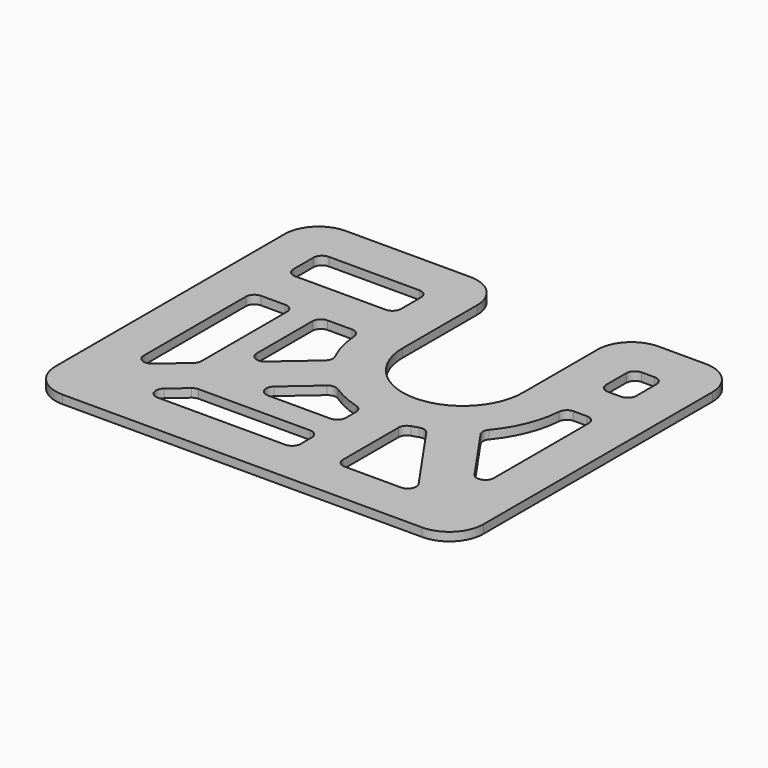
from build123d import *

# Parameters (mm, degrees)
F1_DEPTH = 6.35
F2_W     = 31.75
F2_H     = 63.1597361455
F2_W_2   = 80.4999943972
F2_H_2   = 31.75
F2_W_3   = 22.4999943972
F3_DEPTH = 6.35
F4_W     = 19.05
F4_H     = 89.0185771326
F4_W_2   = 92.1357582898
F4_H_2   = 19.05
F5_DEPTH = 6.35
F6_R     = 25.4
F7_R     = 6.35


with BuildPart() as f1:
    # F0 (on Top) → F1 (new body)
    with BuildSketch(Plane.XY):
        with BuildLine():
            Line((-45, 95), (-189, 95))
            Line((-189, 95), (-189, -170))
            Line((-189, -170), (131, -170))
            Line((131, -170), (131, 95))
            Line((131, 95), (45, 95))
            Line((45, 95), (45, 0))
            ThreePointArc((45, 0), (0, -45), (-45, 0))
            Line((-45, 0), (-45, 95))
        make_face()
        with BuildLine():
            Line((-76.7500028014, 63.2499971986), (-76.7500028014, 0))
            ThreePointArc((-76.7500028014, 0), (0, -76.7500028014), (76.7500028014, 0))
            Line((76.7500028014, 0), (76.7500028014, 63.2499971986))
            Line((76.7500028014, 63.2499971986), (99.2499971986, 63.2499971986))
            Line((99.2499971986, 63.2499971986), (99.2499971986, -138.2499971986))
            Line((99.2499971986, -138.2499971986), (-157.2499971986, -138.2499971986))
            Line((-157.2499971986, -138.2499971986), (-157.2499971986, 63.2499971986))
            Line((-157.2499971986, 63.2499971986), (-76.7500028014, 63.2499971986))
        make_face(mode=Mode.SUBTRACT)
    extrude(amount=-F1_DEPTH)

    # F2 (on face) → F3 (join)
    with BuildSketch(Plane.XY):
        with Locations((0, -106.6701291258)):
            Rectangle(F2_W, F2_H)
        with Locations((-117, 15.875)):
            Rectangle(F2_W_2, F2_H_2)
        with Locations((88, 15.875)):
            Rectangle(F2_W_3, F2_H_2)
        Polygon((-46.2363796826, -61.2597757412), (-67.0740856459, -37.3045568904), (-157.2499971986, -115.7450479419), (-157.2499971986, -138.2499971986), (-134.7450479419, -138.2499971986), align=None)
        Polygon((55.8022859826, -52.6940965302), (29.7003793774, -70.7704062081), (76.4319075424, -138.2499971986), (99.2499971986, -138.2499971986), (99.2499971986, -115.4319075424), align=None)
    extrude(amount=-F3_DEPTH)

    # F4 (on face) → F5 (join)
    with BuildSketch(Plane.XY):
        with Locations((-117, -44.5092885663)):
            Rectangle(F4_W, F4_H)
        with Locations((-61.9428791449, -105.4698864699)):
            Rectangle(F4_W_2, F4_H_2)
    extrude(amount=-F5_DEPTH)

    # F6
    f6_edges = [f1.edges().sort_by_distance(p)[0] for p in [
        (-189, 95, -3.175),
        (-189, -170, -3.175),
        (131, -170, -3.175),
        (131, 95, -3.175),
        (45, 95, -3.175),
        (-45, 95, -3.175),
    ]]
    fillet(f6_edges, radius=F6_R)

    # F7
    f7_edges = [f1.edges().sort_by_distance(p)[0] for p in [
        (76.750003, 63.249997, -3.175),
        (99.249997, 63.249997, -3.175),
        (76.750003, 31.75, -3.175),
        (99.249997, 31.75, -3.175),
        (55.802286, -52.694097, -3.175),
        (-157.249997, 31.75, -3.175),
        (-134.745048, -138.249997, -3.175),
        (-86.110703, -95.944886, -3.175),
        (15.875, -138.249997, -3.175),
        (-157.249997, 0, -3.175),
        (-157.249997, 63.249997, -3.175),
        (-107.475, 0, -3.175),
        (-46.23638, -61.259776, -3.175),
        (-108.010758, -114.994886, -3.175),
        (15.875, -75.090261, -3.175),
        (76.750003, 0, -3.175),
        (-76.750003, 31.75, -3.175),
        (-67.074086, -37.304557, -3.175),
        (-15.875, -95.944886, -3.175),
        (76.431908, -138.249997, -3.175),
        (-15.875, -138.249997, -3.175),
        (-126.525, -89.018577, -3.175),
        (-107.475, -72.447729, -3.175),
        (-157.249997, -115.745048, -3.175),
        (99.249997, 0, -3.175),
        (-15.875, -75.090261, -3.175),
        (-15.875, -114.994886, -3.175),
        (-76.750003, 0, -3.175),
        (-76.750003, 63.249997, -3.175),
        (29.700379, -70.770406, -3.175),
        (-126.525, 0, -3.175),
        (99.249997, -115.431908, -3.175),
    ]]
    fillet(f7_edges, radius=F7_R)


solid = f1.part
